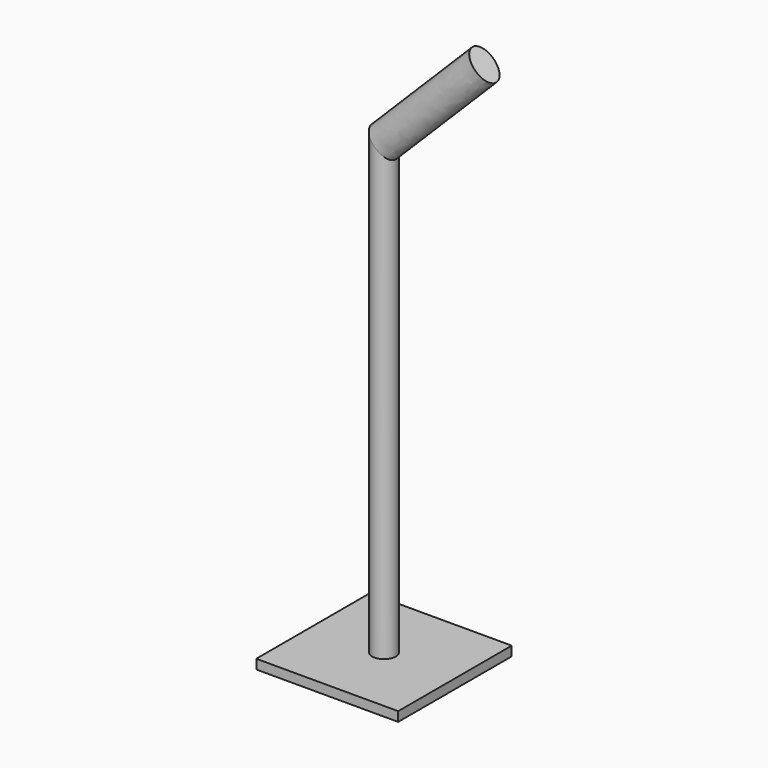
from build123d import *

# Parameters (mm, degrees)
F0_W     = 30
F0_H     = 30
F0_R     = 2.5
F1_DEPTH = 2
F2_DEPTH = 100
F4_DEPTH = 12.5
F5_DEPTH = 30


with BuildPart() as f1:
    # F0 (on Top) → F1 (new body)
    with BuildSketch(Plane.XY):
        Rectangle(F0_W, F0_H)
        Circle(F0_R, mode=Mode.SUBTRACT)
    extrude(amount=F1_DEPTH)

    # F0 (on Top) → F2 (join)
    with BuildSketch(Plane.XY):
        Circle(F0_R)
    extrude(amount=F2_DEPTH)

    # F3 (on Front) → F4 (cut, symmetric)
    with BuildSketch(Plane.XZ):
        Polygon((3, 100), (-3, 100), (3, 94), align=None)
    extrude(amount=F4_DEPTH, both=True, mode=Mode.SUBTRACT)

    # F4_face (on face) → F5 (join)
    with BuildSketch(Plane(origin=(0, 0, 97), x_dir=(0, 1, 0), z_dir=(0.707107, 0, 0.707107))):
        with BuildLine():
            add(Edge.make_bspline(
                [(0, -3.535534), (-4.330127, -3.535534), (-2.165064, 1.767767), (0, 7.071068), (2.165064, 1.767767), (4.330127, -3.535534), (0, -3.535534)],
                knots=[0, 0, 0, 2.094395, 2.094395, 4.18879, 4.18879, 6.283185, 6.283185, 6.283185], degree=2, weights=[1, 0.5, 1, 0.5, 1, 0.5, 1]))
        make_face()
    extrude(amount=F5_DEPTH)


solid = f1.part
